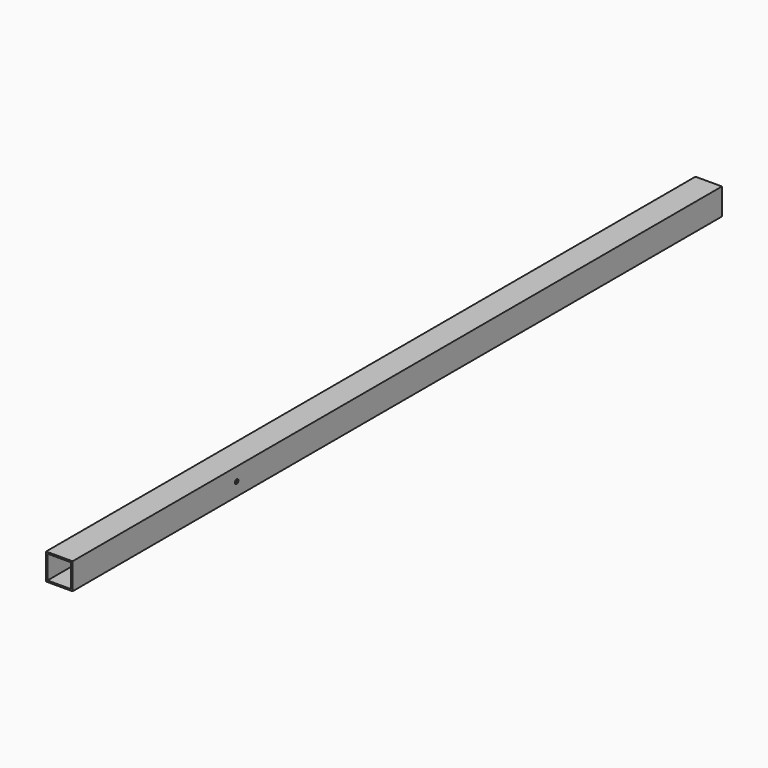
from build123d import *

# Parameters (mm, degrees)
F0_W     = 38.1
F0_H     = 38.1
F0_W_2   = 33.8836
F0_H_2   = 33.8836
F1_DEPTH = 1168.4
F2_R     = 3.175
F3_DEPTH = 76.2


with BuildPart() as f1:
    # F0 (on Front) → F1 (new body)
    with BuildSketch(Plane.XZ):
        with Locations((-34.982346, 16.688035)):
            Rectangle(F0_W, F0_H)
        with Locations((-34.982346, 16.688035)):
            Rectangle(F0_W_2, F0_H_2, mode=Mode.SUBTRACT)
    extrude(amount=F1_DEPTH)

    # F2 (on face) → F3 (cut)
    with BuildSketch(Plane(origin=(-54.032346, 0, 0), x_dir=(0, -1, 0), z_dir=(-1, 0, 0))):
        with Locations((873.125, 16.688035)):
            Circle(F2_R)
    extrude(amount=-F3_DEPTH, mode=Mode.SUBTRACT)


solid = f1.part
